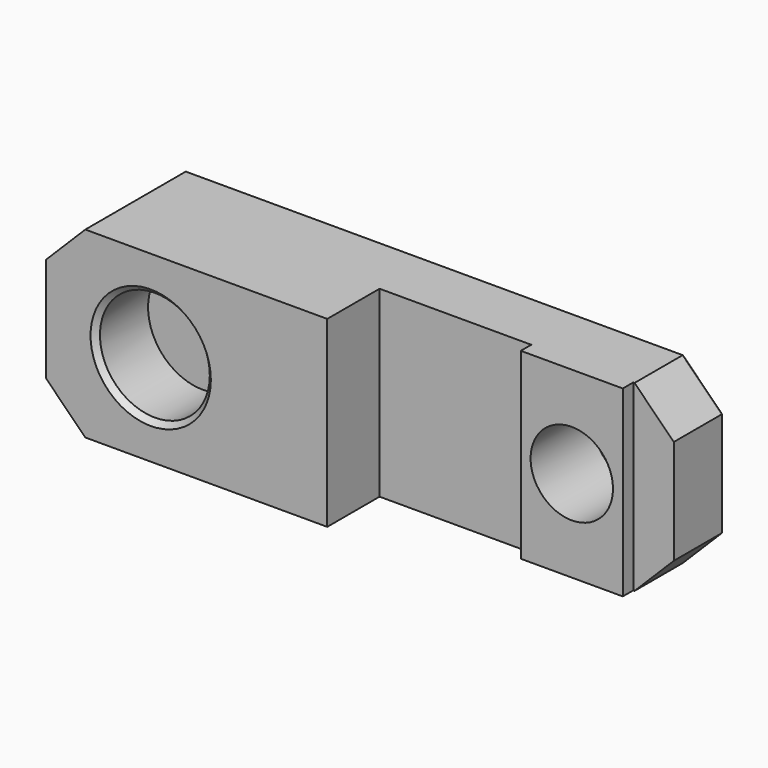
from build123d import *

# Parameters (mm, degrees)
CYLINDER010_R      = 4.2
CYLINDER010_DEPTH  = 5
CYLINDER011_R      = 3.15
CYLINDER011_DEPTH  = 10
BOX016_W           = 22
BOX016_H           = 5
BOX016_DEPTH       = 14
CHAMFER006008_SIZE = 3
CHAMFER006012_SIZE = 0.4
BOX017_W           = 22
BOX017_H           = 5
BOX017_DEPTH       = 14
CHAMFER006013_SIZE = 3
CHAMFER006014_SIZE = 0.4
BOX018_W           = 7.8
BOX018_H           = 2
BOX018_DEPTH       = 14
BOX015_W           = 21.5
BOX015_H           = 5
BOX015_DEPTH       = 14
CHAMFER006009_SIZE = 3
CHAMFER006015_SIZE = 0.4


with BuildPart() as cylinder010:
    # Cylinder010 → Cylinder010 (new body)
    with BuildSketch(Plane(origin=(-14, -5, 7), x_dir=(1, 0, 0), z_dir=(0, 1, 0))):
        Circle(CYLINDER010_R)
    extrude(amount=CYLINDER010_DEPTH)


with BuildPart() as cylinder011:
    # Cylinder011 → Cylinder011 (new body)
    with BuildSketch(Plane(origin=(15, 8, 7), x_dir=(1, 0, 0), z_dir=(0, -1, 0))):
        Circle(CYLINDER011_R)
    extrude(amount=CYLINDER011_DEPTH)


with BuildPart() as chamfer006012:
    # Box016 → Box016 (new body)
    with BuildSketch(Plane(origin=(-22, 0, 0), x_dir=(1, 0, 0), z_dir=(0, 0, 1))):
        with Locations((11, 2.5)):
            Rectangle(BOX016_W, BOX016_H)
    extrude(amount=BOX016_DEPTH)

    # Chamfer006008
    chamfer006008_edges = [chamfer006012.edges().sort_by_distance(p)[0] for p in [
        (-22, 2.5, 14),
        (-22, 2.5, 0),
    ]]
    chamfer(chamfer006008_edges, length=CHAMFER006008_SIZE)

    # Chamfer006012
    chamfer006012_edges = [chamfer006012.edges().sort_by_distance(p)[0] for p in [
        (-22, 5, 7),
        (-20.5, 5, 1.5),
        (-20.5, 5, 12.5),
        (-9.5, 5, 0),
        (-9.5, 5, 14),
    ]]
    chamfer(chamfer006012_edges, length=CHAMFER006012_SIZE)


with BuildPart() as chamfer006014:
    # Box017 → Box017 (new body)
    with BuildSketch(Plane.XY):
        with Locations((11, 2.5)):
            Rectangle(BOX017_W, BOX017_H)
    extrude(amount=BOX017_DEPTH)

    # Chamfer006013
    chamfer006013_edges = [chamfer006014.edges().sort_by_distance(p)[0] for p in [
        (22, 2.5, 14),
        (22, 2.5, 0),
    ]]
    chamfer(chamfer006013_edges, length=CHAMFER006013_SIZE)

    # Chamfer006014
    chamfer006014_edges = [chamfer006014.edges().sort_by_distance(p)[0] for p in [
        (22, 5, 7),
        (20.5, 5, 1.5),
        (20.5, 5, 12.5),
        (9.5, 5, 0),
        (9.5, 5, 14),
    ]]
    chamfer(chamfer006014_edges, length=CHAMFER006014_SIZE)


with BuildPart() as cube017:
    # Box018 → Box018 (new body)
    with BuildSketch(Plane(origin=(11.1, -1, 0), x_dir=(1, 0, 0), z_dir=(0, 0, 1))):
        with Locations((3.9, 1)):
            Rectangle(BOX018_W, BOX018_H)
    extrude(amount=BOX018_DEPTH)


with BuildPart() as chamfer006015:
    # Box015 → Box015 (new body)
    with BuildSketch(Plane(origin=(-22, -5, 0), x_dir=(1, 0, 0), z_dir=(0, 0, 1))):
        with Locations((10.75, 2.5)):
            Rectangle(BOX015_W, BOX015_H)
    extrude(amount=BOX015_DEPTH)

    # Chamfer006009
    chamfer006009_edges = [chamfer006015.edges().sort_by_distance(p)[0] for p in [
        (-22, -2.5, 14),
        (-22, -2.5, 0),
    ]]
    chamfer(chamfer006009_edges, length=CHAMFER006009_SIZE)

    # Fusion005: union Chamfer006012, Chamfer006014, Cube017
    add(chamfer006012.part)
    add(chamfer006014.part)
    add(cube017.part)

    # Cut010011008009003016026008003008002: cut Cylinder011
    add(cylinder011.part, mode=Mode.SUBTRACT)

    # Cut010011008009003016026008003008003: cut Cylinder010
    add(cylinder010.part, mode=Mode.SUBTRACT)

    # Chamfer006015
    chamfer006015_edges = [chamfer006015.edges().sort_by_distance(p)[0] for p in [
        (-18.2, -5, 7),
    ]]
    chamfer(chamfer006015_edges, length=CHAMFER006015_SIZE)


solid = chamfer006015.part
